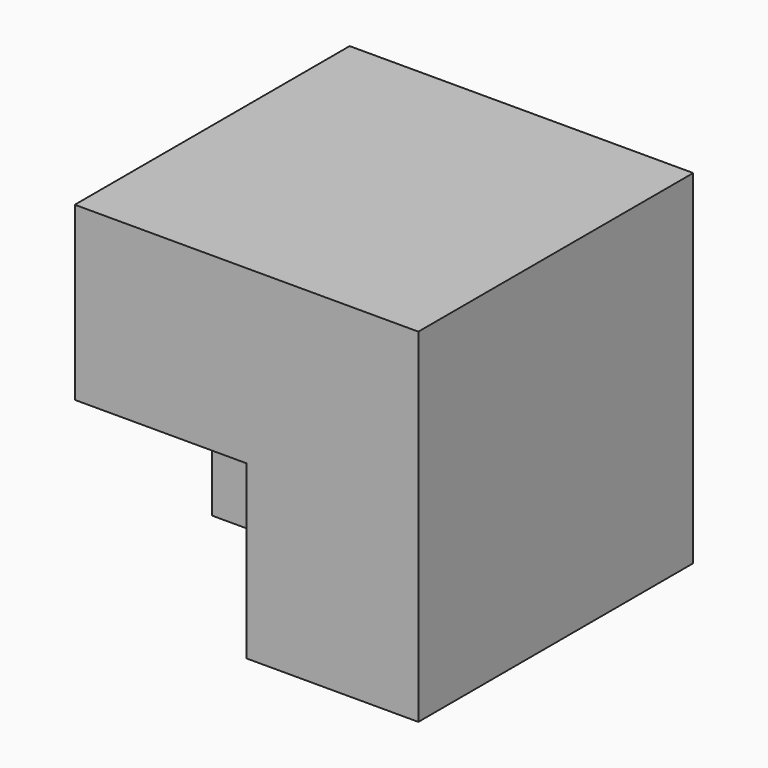
from build123d import *

# Parameters (mm, degrees)
F0_W     = 25.4
F0_H     = 50.8
F1_DEPTH = 50.8
F3_DEPTH = 25.4


with BuildPart() as f1:
    # F0 (on Right) → F1 (new body)
    with BuildSketch(Plane.YZ):
        with Locations((-12.7, 25.4)):
            Rectangle(F0_W, F0_H)
    extrude(amount=F1_DEPTH)

    # F2 (on face) → F3 (join)
    with BuildSketch(Plane.XZ.offset(25.4)):
        Polygon((25.4, 25.4), (25.4, 0), (50.8, 0), (50.8, 50.8), (0, 50.8), (0, 25.4), align=None)
    extrude(amount=F3_DEPTH)


solid = f1.part
